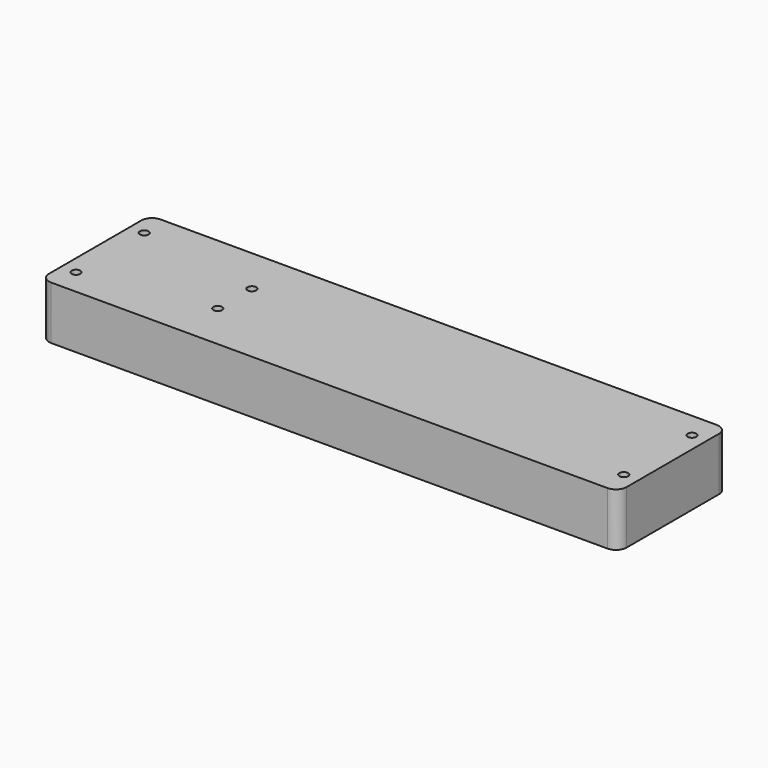
from build123d import *

# Parameters (mm, degrees)
F0_R           = 1.0414
F1_DEPTH       = 12.7
F3_D           = 2.0828
F3_CBORE_D     = 6.858
F3_CBORE_DEPTH = 4.1656


with BuildPart() as f1:
    # F0 (on Top) → F1 (new body)
    with BuildSketch(Plane.XY):
        with BuildLine():
            ThreePointArc((-68.834, -13.75156), (-68.090051, -15.547611), (-66.294, -16.29156))
            Line((-66.294, -16.29156), (66.294, -16.29156))
            ThreePointArc((66.294, -16.29156), (68.090051, -15.547611), (68.834, -13.75156))
            Line((68.834, -13.75156), (68.834, 13.75156))
            ThreePointArc((68.834, 13.75156), (68.090051, 15.547611), (66.294, 16.29156))
            Line((66.294, 16.29156), (-66.294, 16.29156))
            ThreePointArc((-66.294, 16.29156), (-68.090051, 15.547611), (-68.834, 13.75156))
            Line((-68.834, 13.75156), (-68.834, -13.75156))
        make_face()
        with Locations((-65.278, -10.16)):
            Circle(F0_R, mode=Mode.SUBTRACT)
        with Locations((65.278, -10.16)):
            Circle(F0_R, mode=Mode.SUBTRACT)
        with Locations((-65.278, 10.16)):
            Circle(F0_R, mode=Mode.SUBTRACT)
        with Locations((65.278, 10.16)):
            Circle(F0_R, mode=Mode.SUBTRACT)
        with BuildLine():
            ThreePointArc((-68.834, -13.75156), (-68.090051, -15.547611), (-66.294, -16.29156))
            Line((-66.294, -16.29156), (66.294, -16.29156))
            ThreePointArc((66.294, -16.29156), (68.090051, -15.547611), (68.834, -13.75156))
            Line((68.834, -13.75156), (68.834, 13.75156))
            ThreePointArc((68.834, 13.75156), (68.090051, 15.547611), (66.294, 16.29156))
            Line((66.294, 16.29156), (-66.294, 16.29156))
            ThreePointArc((-66.294, 16.29156), (-68.090051, 15.547611), (-68.834, 13.75156))
            Line((-68.834, 13.75156), (-68.834, -13.75156))
        make_face()
        with Locations((-65.278, -10.16)):
            Circle(F0_R, mode=Mode.SUBTRACT)
        with Locations((65.278, -10.16)):
            Circle(F0_R, mode=Mode.SUBTRACT)
        with Locations((-65.278, 10.16)):
            Circle(F0_R, mode=Mode.SUBTRACT)
        with Locations((65.278, 10.16)):
            Circle(F0_R, mode=Mode.SUBTRACT)
    extrude(amount=F1_DEPTH)

    # F3 (through all)
    with Locations(Plane(origin=(0, 0, 0), x_dir=(1, 0, 0), z_dir=(0, 0, -1))):
        with Locations((-35.56, 5.08), (-35.56, -5.08)):
            CounterBoreHole(F3_D / 2, F3_CBORE_D / 2, F3_CBORE_DEPTH)


solid = f1.part
